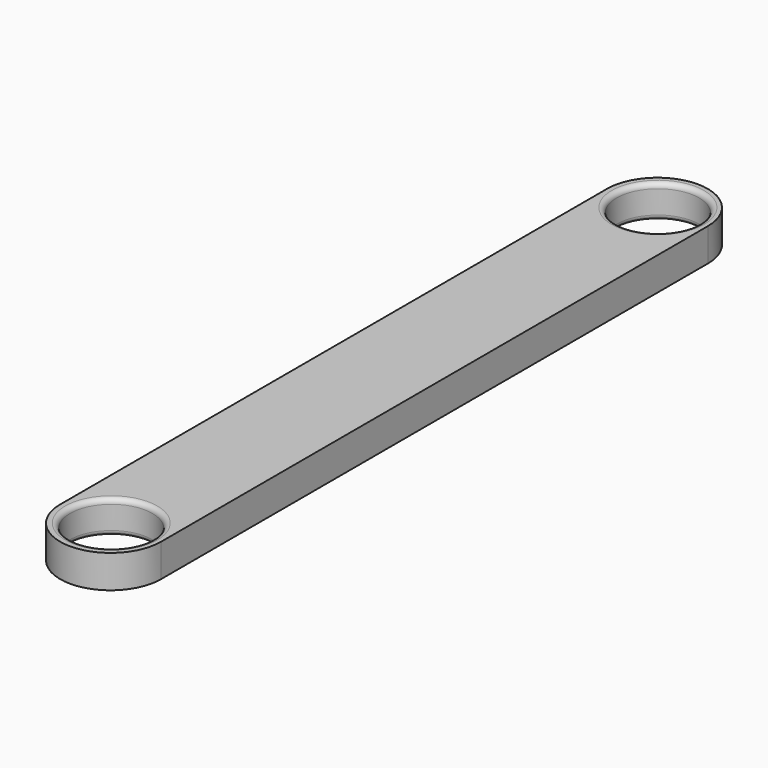
from build123d import *

# Parameters (mm, degrees)
F1_DEPTH = 2.54
F2_R     = 3.175
F2_R_2   = 3.171459
F3_DEPTH = 3.81
F4_R     = 0.381


with BuildPart() as f1:
    # F0 (on Top) → F1 (new body)
    with BuildSketch(Plane.XY):
        with BuildLine():
            ThreePointArc((-31.748279, 37.824634), (-35.639643, 41.715999), (-39.531007, 37.824634))
            Line((-39.531007, 37.824634), (-39.531007, -14.883377))
            ThreePointArc((-39.531007, -14.883377), (-35.639643, -18.774741), (-31.748279, -14.883377))
            Line((-31.748279, -14.883377), (-31.748279, 37.824634))
        make_face()
    extrude(amount=F1_DEPTH)

    # F2 (on Top) → F3 (cut)
    with BuildSketch(Plane.XY):
        with Locations((-35.616416, 37.843566)):
            Circle(F2_R)
        with Locations((-35.617653, -14.84884)):
            Circle(F2_R_2)
    extrude(amount=F3_DEPTH, mode=Mode.SUBTRACT)

    # F4
    f4_edges = [f1.edges().sort_by_distance(p)[0] for p in [
        (-38.791416, 37.843566, 2.54),
        (-38.791416, 37.843566, 0),
        (-38.789113, -14.84884, 2.54),
        (-38.789113, -14.84884, 0),
    ]]
    fillet(f4_edges, radius=F4_R)


solid = f1.part
